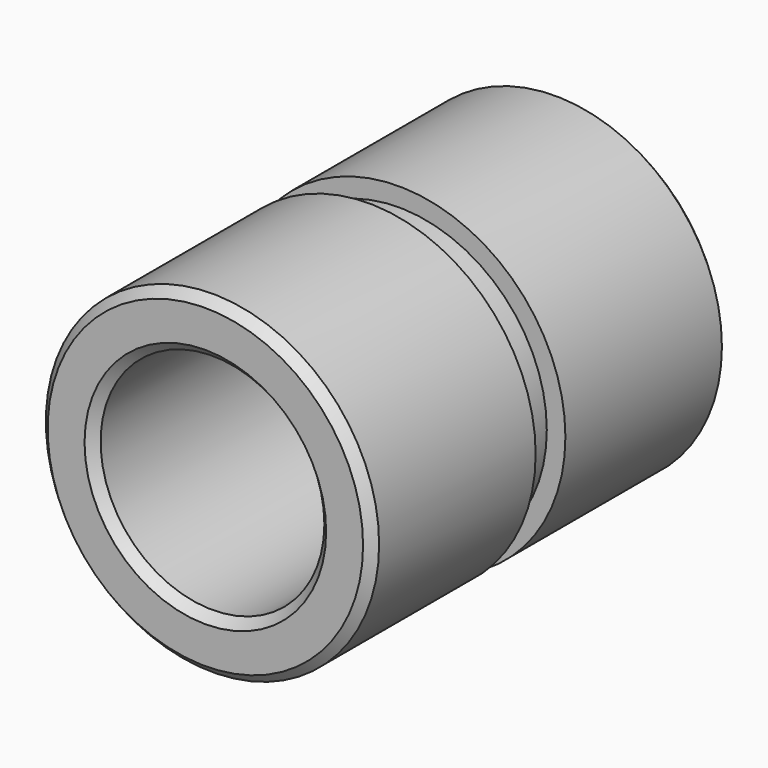
from build123d import *

# Parameters (mm, degrees)
F0_R     = 14.224
F0_R_2   = 9.5504
F1_DEPTH = 19.05
F2_R     = 14.224
F2_R_2   = 12.6365
F3_DEPTH = 1.5875
F4_SIZE  = 0.762


with BuildPart() as f1:
    # F0 (on Front) → F1 (new body, symmetric)
    with BuildSketch(Plane.XZ):
        Circle(F0_R)
        Circle(F0_R_2, mode=Mode.SUBTRACT)
    extrude(amount=F1_DEPTH, both=True)

    # F2 (on Front) → F3 (cut, symmetric)
    with BuildSketch(Plane.XZ):
        Circle(F2_R)
        Circle(F2_R_2, mode=Mode.SUBTRACT)
    extrude(amount=F3_DEPTH, both=True, mode=Mode.SUBTRACT)

    # F4
    f4_edges = [f1.edges().sort_by_distance(p)[0] for p in [
        (-14.224, 19.05, 0),
        (-14.224, -19.05, 0),
        (-9.5504, 19.05, 0),
        (-9.5504, -19.05, 0),
    ]]
    chamfer(f4_edges, length=F4_SIZE)


solid = f1.part
